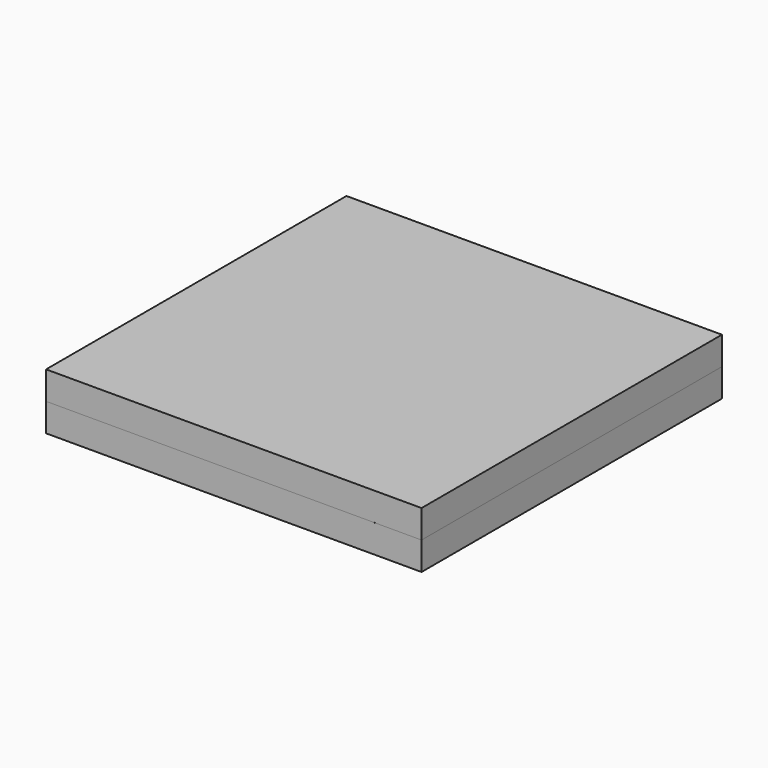
from build123d import *

# Parameters (mm, degrees)
BOX001_W     = 40
BOX001_H     = 40
BOX001_DEPTH = 3
BOX_W        = 40
BOX_H        = 40
BOX_DEPTH    = 3


with BuildPart() as sphere009:
    # Sphere009 → Sphere009 (revolve)
    with BuildSketch(Plane(origin=(34, 20, 3), x_dir=(1, 0, 0), z_dir=(0, -1, 0))):
        with BuildLine():
            ThreePointArc((0, -1.65), (1.65, 0), (0, 1.65))
            Line((0, 1.65), (0, -1.65))
        make_face()
    revolve(axis=Axis((34, 20, 3), (0, 0, 1)))


with BuildPart() as sphere010:
    # Sphere010 → Sphere010 (revolve)
    with BuildSketch(Plane(origin=(34, 6, 3), x_dir=(1, 0, 0), z_dir=(0, -1, 0))):
        with BuildLine():
            ThreePointArc((0, -1.65), (1.65, 0), (0, 1.65))
            Line((0, 1.65), (0, -1.65))
        make_face()
    revolve(axis=Axis((34, 6, 3), (0, 0, 1)))


with BuildPart() as sphere011:
    # Sphere011 → Sphere011 (revolve)
    with BuildSketch(Plane(origin=(20, 34, 3), x_dir=(1, 0, 0), z_dir=(0, -1, 0))):
        with BuildLine():
            ThreePointArc((0, -1.65), (1.65, 0), (0, 1.65))
            Line((0, 1.65), (0, -1.65))
        make_face()
    revolve(axis=Axis((20, 34, 3), (0, 0, 1)))


with BuildPart() as sphere012:
    # Sphere012 → Sphere012 (revolve)
    with BuildSketch(Plane(origin=(20, 6, 3), x_dir=(1, 0, 0), z_dir=(0, -1, 0))):
        with BuildLine():
            ThreePointArc((0, -1.65), (1.65, 0), (0, 1.65))
            Line((0, 1.65), (0, -1.65))
        make_face()
    revolve(axis=Axis((20, 6, 3), (0, 0, 1)))


with BuildPart() as sphere013:
    # Sphere013 → Sphere013 (revolve)
    with BuildSketch(Plane(origin=(6, 34, 3), x_dir=(1, 0, 0), z_dir=(0, -1, 0))):
        with BuildLine():
            ThreePointArc((0, -1.65), (1.65, 0), (0, 1.65))
            Line((0, 1.65), (0, -1.65))
        make_face()
    revolve(axis=Axis((6, 34, 3), (0, 0, 1)))


with BuildPart() as sphere014:
    # Sphere014 → Sphere014 (revolve)
    with BuildSketch(Plane(origin=(34, 34, 3), x_dir=(1, 0, 0), z_dir=(0, -1, 0))):
        with BuildLine():
            ThreePointArc((0, -1.65), (1.65, 0), (0, 1.65))
            Line((0, 1.65), (0, -1.65))
        make_face()
    revolve(axis=Axis((34, 34, 3), (0, 0, 1)))


with BuildPart() as sphere015:
    # Sphere015 → Sphere015 (revolve)
    with BuildSketch(Plane(origin=(6, 20, 3), x_dir=(1, 0, 0), z_dir=(0, -1, 0))):
        with BuildLine():
            ThreePointArc((0, -1.65), (1.65, 0), (0, 1.65))
            Line((0, 1.65), (0, -1.65))
        make_face()
    revolve(axis=Axis((6, 20, 3), (0, 0, 1)))


with BuildPart() as fusion001:
    # Sphere008 → Sphere008 (revolve)
    with BuildSketch(Plane(origin=(6, 6, 3), x_dir=(1, 0, 0), z_dir=(0, -1, 0))):
        with BuildLine():
            ThreePointArc((0, -1.65), (1.65, 0), (0, 1.65))
            Line((0, 1.65), (0, -1.65))
        make_face()
    revolve(axis=Axis((6, 6, 3), (0, 0, 1)))

    # Fusion001: union Sphere009, Sphere010, Sphere011, Sphere012, Sphere013, Sphere014, Sphere015
    add(sphere009.part)
    add(sphere010.part)
    add(sphere011.part)
    add(sphere012.part)
    add(sphere013.part)
    add(sphere014.part)
    add(sphere015.part)


with BuildPart() as dips:
    # Box001 → Box001 (new body)
    with BuildSketch(Plane.XY.offset(3)):
        with Locations((20, 20)):
            Rectangle(BOX001_W, BOX001_H)
    extrude(amount=BOX001_DEPTH)

    # Cut: cut Fusion001
    add(fusion001.part, mode=Mode.SUBTRACT)


with BuildPart() as sphere007:
    # Sphere007 → Sphere007 (revolve)
    with BuildSketch(Plane(origin=(20, 34, 3), x_dir=(1, 0, 0), z_dir=(0, -1, 0))):
        with BuildLine():
            ThreePointArc((0, -1.5), (1.5, 0), (0, 1.5))
            Line((0, 1.5), (0, -1.5))
        make_face()
    revolve(axis=Axis((20, 34, 3), (0, 0, 1)))


with BuildPart() as sphere002:
    # Sphere002 → Sphere002 (revolve)
    with BuildSketch(Plane(origin=(34, 34, 3), x_dir=(1, 0, 0), z_dir=(0, -1, 0))):
        with BuildLine():
            ThreePointArc((0, -1.5), (1.5, 0), (0, 1.5))
            Line((0, 1.5), (0, -1.5))
        make_face()
    revolve(axis=Axis((34, 34, 3), (0, 0, 1)))


with BuildPart() as sphere004:
    # Sphere004 → Sphere004 (revolve)
    with BuildSketch(Plane(origin=(6, 20, 3), x_dir=(1, 0, 0), z_dir=(0, -1, 0))):
        with BuildLine():
            ThreePointArc((0, -1.5), (1.5, 0), (0, 1.5))
            Line((0, 1.5), (0, -1.5))
        make_face()
    revolve(axis=Axis((6, 20, 3), (0, 0, 1)))


with BuildPart() as sphere006:
    # Sphere006 → Sphere006 (revolve)
    with BuildSketch(Plane(origin=(20, 6, 3), x_dir=(1, 0, 0), z_dir=(0, -1, 0))):
        with BuildLine():
            ThreePointArc((0, -1.5), (1.5, 0), (0, 1.5))
            Line((0, 1.5), (0, -1.5))
        make_face()
    revolve(axis=Axis((20, 6, 3), (0, 0, 1)))


with BuildPart() as spare_bumps:
    # Sphere001 → Sphere001 (revolve)
    with BuildSketch(Plane(origin=(34, 6, 3), x_dir=(1, 0, 0), z_dir=(0, -1, 0))):
        with BuildLine():
            ThreePointArc((0, -1.5), (1.5, 0), (0, 1.5))
            Line((0, 1.5), (0, -1.5))
        make_face()
    revolve(axis=Axis((34, 6, 3), (0, 0, 1)))

    # Fusion002: union Sphere007, Sphere002, Sphere004, Sphere006
    add(sphere007.part)
    add(sphere002.part)
    add(sphere004.part)
    add(sphere006.part)


with BuildPart() as sphere005:
    # Sphere005 → Sphere005 (revolve)
    with BuildSketch(Plane(origin=(34, 20, 3), x_dir=(1, 0, 0), z_dir=(0, -1, 0))):
        with BuildLine():
            ThreePointArc((0, -1.5), (1.5, 0), (0, 1.5))
            Line((0, 1.5), (0, -1.5))
        make_face()
    revolve(axis=Axis((34, 20, 3), (0, 0, 1)))


with BuildPart() as sphere003:
    # Sphere003 → Sphere003 (revolve)
    with BuildSketch(Plane(origin=(6, 34, 3), x_dir=(1, 0, 0), z_dir=(0, -1, 0))):
        with BuildLine():
            ThreePointArc((0, -1.5), (1.5, 0), (0, 1.5))
            Line((0, 1.5), (0, -1.5))
        make_face()
    revolve(axis=Axis((6, 34, 3), (0, 0, 1)))


with BuildPart() as fusion:
    # Sphere → Sphere (revolve)
    with BuildSketch(Plane(origin=(6, 6, 3), x_dir=(1, 0, 0), z_dir=(0, -1, 0))):
        with BuildLine():
            ThreePointArc((0, -1.5), (1.5, 0), (0, 1.5))
            Line((0, 1.5), (0, -1.5))
        make_face()
    revolve(axis=Axis((6, 6, 3), (0, 0, 1)))

    # Fusion: union Sphere005, Sphere003
    add(sphere005.part)
    add(sphere003.part)


with BuildPart() as fusion003:
    # Box → Box (new body)
    with BuildSketch(Plane.XY):
        with Locations((20, 20)):
            Rectangle(BOX_W, BOX_H)
    extrude(amount=BOX_DEPTH)

    # Fusion003: union Fusion
    add(fusion.part)


solid = Compound([dips.part, spare_bumps.part, fusion003.part])
